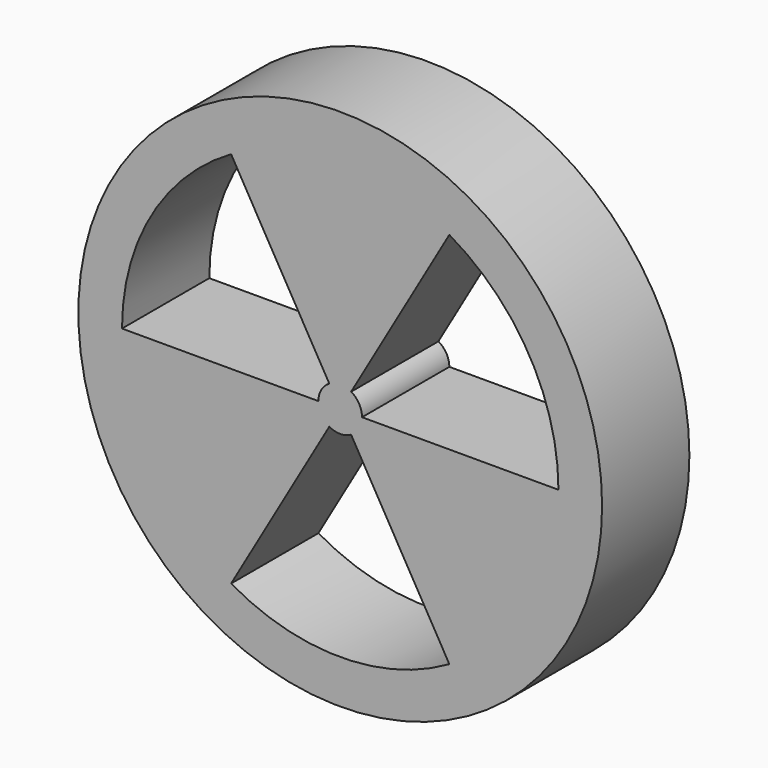
from build123d import *

# Parameters (mm, degrees)
F1_DEPTH = 6.35
F2_R     = 15.24
F2_R_2   = 12.7
F3_DEPTH = 6.35
F4_R     = 1.27
F5_DEPTH = 6.35


with BuildPart() as f1:
    # F0 (on Front) → F1 (new body)
    with BuildSketch(Plane.XZ):
        Polygon((7.3323484187, 12.7), (-7.3323484187, 12.7), (0, 0), align=None)
    extrude(amount=F1_DEPTH)



with BuildPart() as f1b:
    # F0 (on Front) → F1, piece 2 (new body)
    with BuildSketch(Plane.XZ):
        Polygon((0, 0), (-14.6646968374, 0), (-7.3323484187, -12.7), align=None)
    extrude(amount=F1_DEPTH)


with BuildPart() as f1c:
    # F0 (on Front) → F1, piece 3 (new body)
    with BuildSketch(Plane.XZ):
        Polygon((14.6646968374, 0), (0, 0), (7.3323484187, -12.7), align=None)
    extrude(amount=F1_DEPTH)


with BuildPart() as f1_1:
    add(f1.part)

    add(f1b.part)  # F3 merges F1b

    add(f1c.part)  # F3 merges F1c
    # F2 (on Front) → F3 (join)
    with BuildSketch(Plane.XZ):
        Circle(F2_R)
        Circle(F2_R_2, mode=Mode.SUBTRACT)
    extrude(amount=F3_DEPTH)

    # F4 (on Front) → F5 (join)
    with BuildSketch(Plane.XZ):
        Circle(F4_R)
    extrude(amount=F5_DEPTH)


solid = f1_1.part
